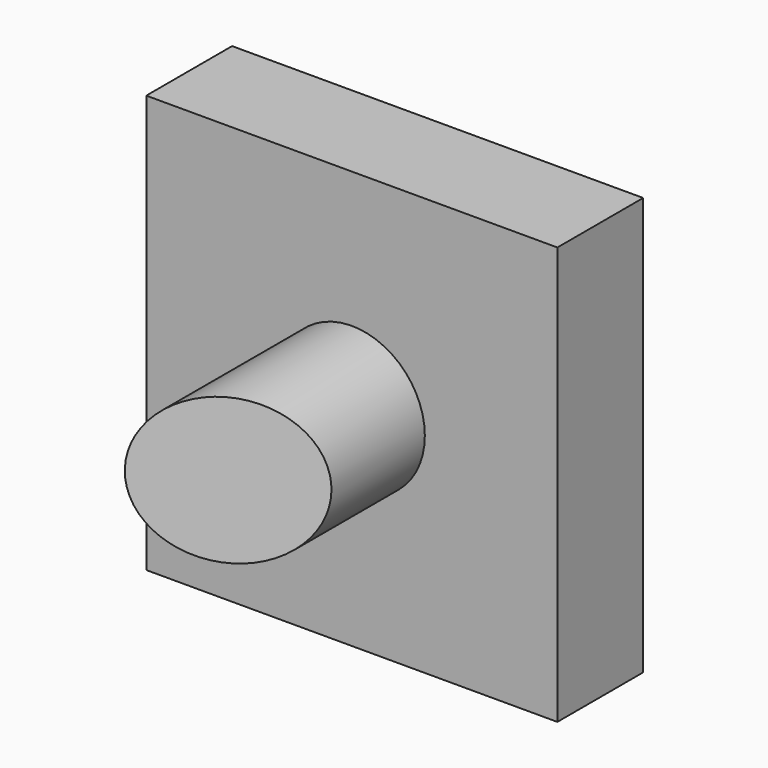
from build123d import *

# Parameters (mm, degrees)
F0_W     = 97.346954
F0_H     = 98.902032
F1_DEPTH = 25.4
F2_R     = 17.286397
F3_DEPTH = 50.8
F5_DEPTH = 35.814


with BuildPart() as f1:
    # F0 (on Front) → F1 (new body)
    with BuildSketch(Plane.XZ):
        Rectangle(F0_W, F0_H)
    extrude(amount=F1_DEPTH)

    # F2 (on face) → F3 (join)
    with BuildSketch(Plane.XZ.offset(25.4)):
        Circle(F2_R)
    extrude(amount=F3_DEPTH)

    # F4 (on Top) → F5 (cut, symmetric)
    with BuildSketch(Plane.XY):
        Polygon((48.688538, -36.72133), (-35.245914, -80.327898), (48.688538, -80.327898), align=None)
        Polygon((48.688538, -36.72133), (-35.245914, -80.327898), (48.688538, -80.327898), align=None)
    extrude(amount=F5_DEPTH, both=True, mode=Mode.SUBTRACT)


solid = f1.part
